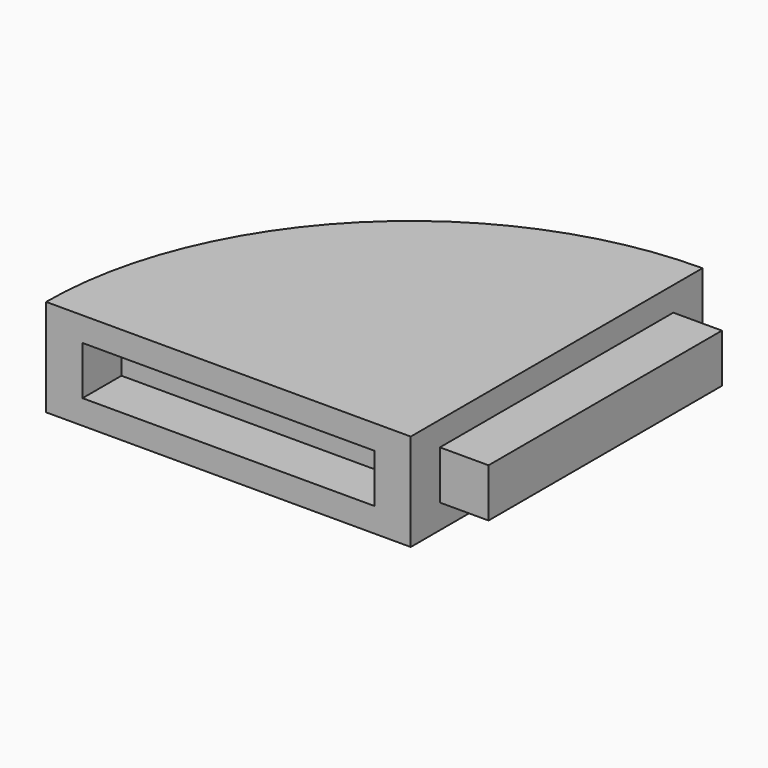
from build123d import *

# Parameters (mm, degrees)
F1_DEPTH = 25.4
F2_W     = 76.2
F2_H     = 12.7
F3_DEPTH = 12.7
F5_DEPTH = 12.7


with BuildPart() as f1:
    # F0 (on Top) → F1 (new body)
    with BuildSketch(Plane.XY):
        with BuildLine():
            Line((-95.25, 0), (0, 0))
            Line((0, 0), (0, 95.25))
            ThreePointArc((0, 95.25), (-67.351921, 67.351921), (-95.25, 0))
        make_face()
    extrude(amount=-F1_DEPTH)

    # F2 (on face) → F3 (cut)
    with BuildSketch(Plane.XZ):
        with Locations((-47.625, -12.7)):
            Rectangle(F2_W, F2_H)
    extrude(amount=-F3_DEPTH, mode=Mode.SUBTRACT)

    # F4 (on face) → F5 (join)
    with BuildSketch(Plane.YZ):
        Polygon((9.525, -6.35), (9.525, -12.7), (9.525, -19.05), (47.625, -19.05), (85.725, -19.05), (85.725, -12.7), (85.725, -6.35), (47.625, -6.35), align=None)
    extrude(amount=F5_DEPTH)


solid = f1.part
